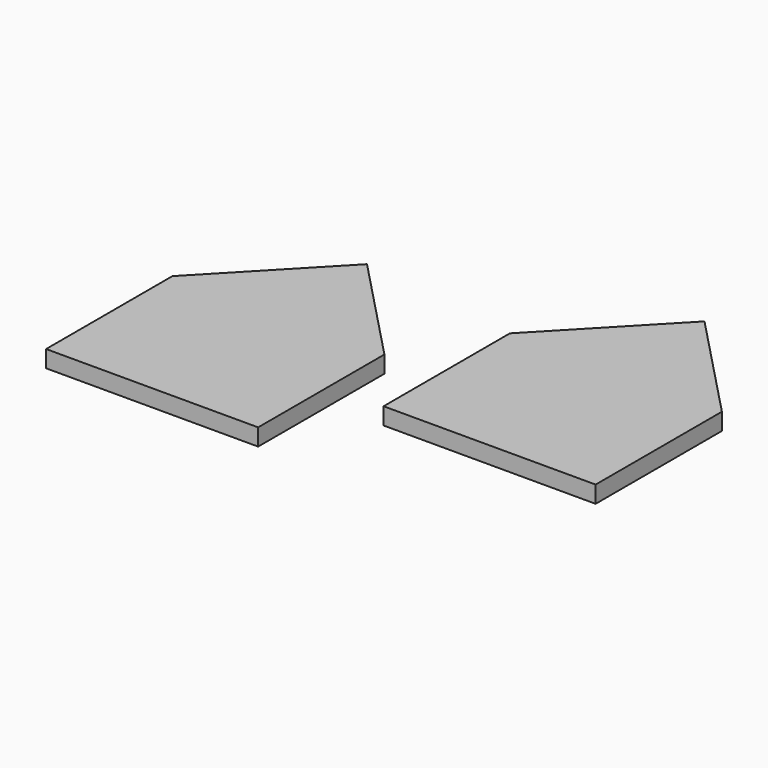
from build123d import *

# Parameters (mm, degrees)
F1_DEPTH = 2
F3_DEPTH = 2


with BuildPart() as f1:
    # F0 (on Top) → F1 (new body)
    with BuildSketch(Plane.XY):
        Polygon((-18.887816, 21.164571), (-31.387816, 8.109015), (-31.387816, -10.502097), (-6.387816, -10.502097), (-6.387816, 8.109015), align=None)
    extrude(amount=F1_DEPTH)


with BuildPart() as f3:
    # F2 (on Top) → F3 (new body)
    with BuildSketch(Plane.XY):
        Polygon((0, 18.611), (0, 0), (25, 0), (25, 18.611), (12.5, 31.666866), align=None)
    extrude(amount=F3_DEPTH)


solid = Compound([f1.part, f3.part])
